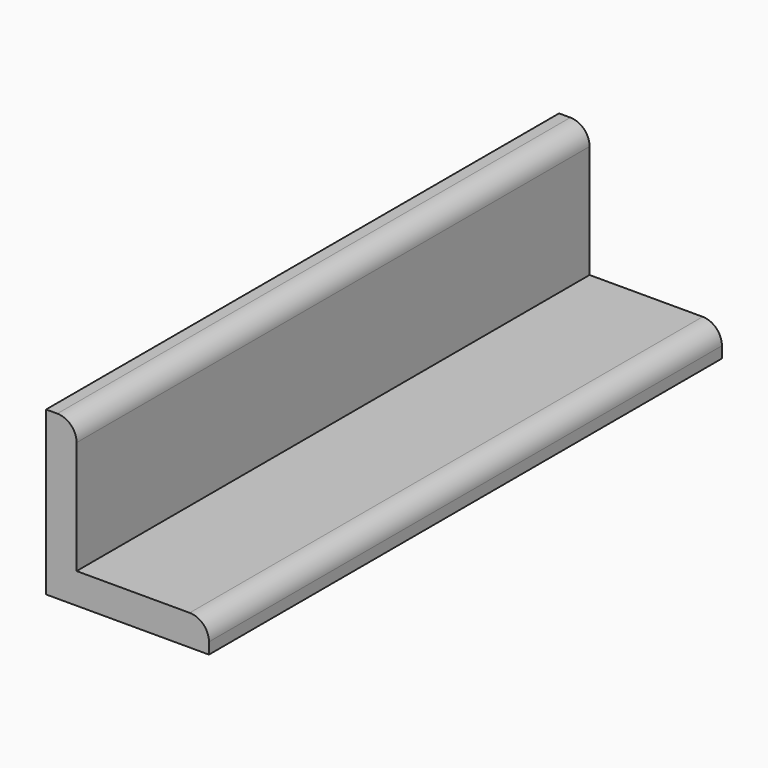
from build123d import *

# Parameters (mm, degrees)
F1_DEPTH = 100


with BuildPart() as f1:
    # F0 (on Front) → F1 (new body)
    with BuildSketch(Plane.XZ):
        with BuildLine():
            Line((0, 25.4), (0, 0))
            Line((0, 0), (25.4, 0))
            Line((25.4, 0), (25.4, 1.76))
            ThreePointArc((25.4, 1.76), (24.52132, 3.88132), (22.4, 4.76))
            Line((22.4, 4.76), (4.76, 4.76))
            Line((4.76, 4.76), (4.76, 22.4))
            ThreePointArc((4.76, 22.4), (3.88132, 24.52132), (1.76, 25.4))
            Line((1.76, 25.4), (0, 25.4))
        make_face()
    extrude(amount=F1_DEPTH)


solid = f1.part
